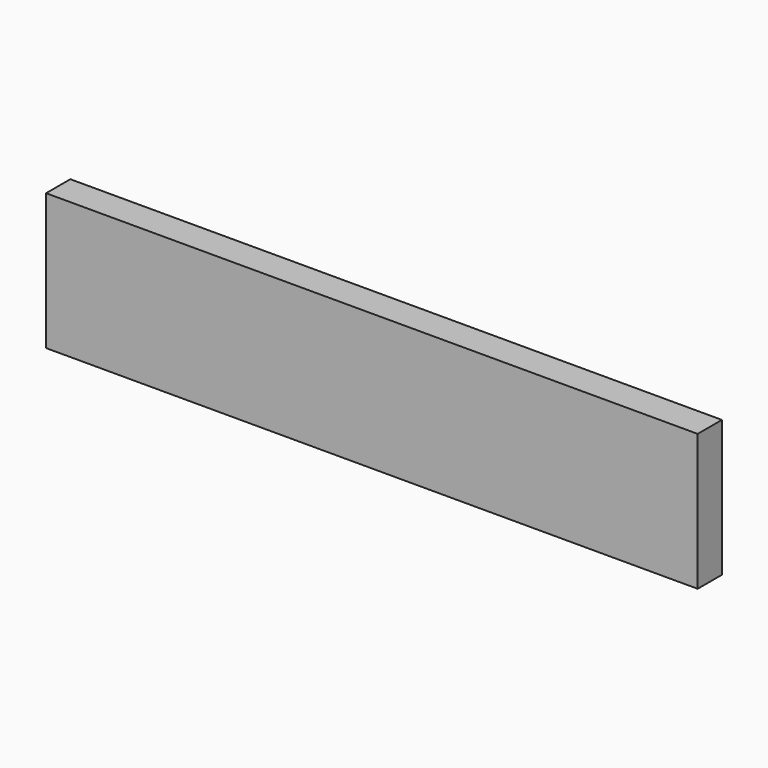
from build123d import *

# Parameters (mm, degrees)
F0_W     = 409.575
F0_H     = 85.725
F0_W_2   = 9.525
F0_H_2   = 41.275
F1_DEPTH = 19.05
F2_DEPTH = 4.7625


with BuildPart() as f1:
    # F0 (on Front) → F1 (new body)
    with BuildSketch(Plane.XZ):
        Rectangle(F0_W, F0_H)
        with Locations((-161.925, -12.7)):
            Rectangle(F0_W_2, F0_H_2, mode=Mode.SUBTRACT)
        with Locations((161.925, -12.7)):
            Rectangle(F0_W_2, F0_H_2, mode=Mode.SUBTRACT)
        with Locations((161.925, -12.7)):
            Rectangle(F0_W_2, F0_H_2)
        with Locations((-161.925, -12.7)):
            Rectangle(F0_W_2, F0_H_2)
    extrude(amount=F1_DEPTH)

    # F0 (on Front) → F2 (cut)
    with BuildSketch(Plane.XZ):
        with Locations((161.925, -12.7)):
            Rectangle(F0_W_2, F0_H_2)
        with Locations((-161.925, -12.7)):
            Rectangle(F0_W_2, F0_H_2)
    extrude(amount=F2_DEPTH, mode=Mode.SUBTRACT)


solid = f1.part
